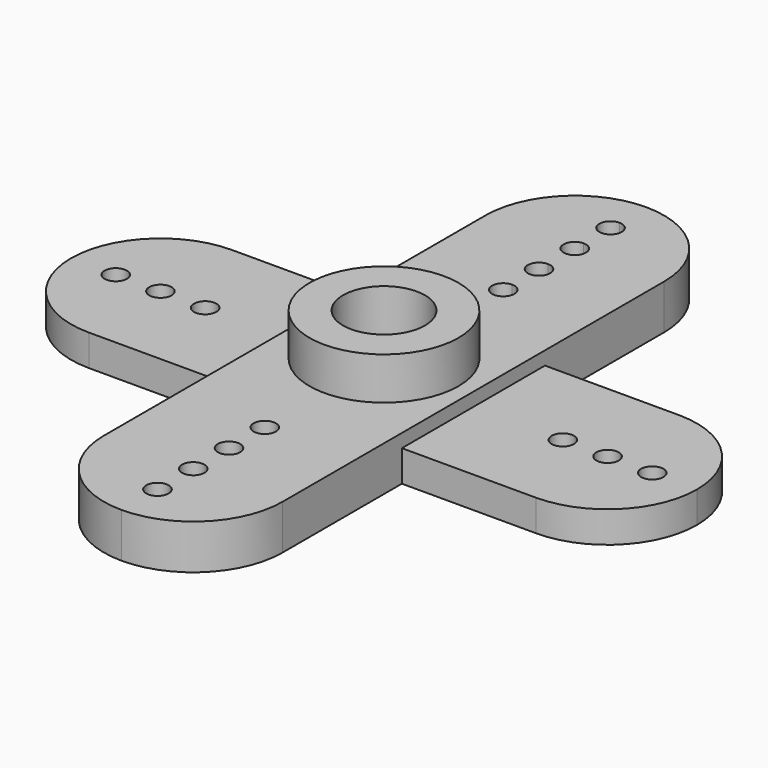
from build123d import *

# Parameters (mm, degrees)
F0_R     = 19.05
F1_DEPTH = 76.2
F2_DEPTH = 53.34
F3_R     = 127
F3_R_2   = 69.85
F4_DEPTH = 72.39
F5_R     = 76.2
F6_DEPTH = 35.56


with BuildPart() as f1:
    # F0 (on Top) → F1 (new body)
    with BuildSketch(Plane.XY):
        with BuildLine():
            ThreePointArc((34.29, 0), (-24.246692, -24.246692), (0, 34.29))
            Line((0, 34.29), (0, 234.95))
            ThreePointArc((0, 234.95), (-19.05, 254), (0, 273.05))
            Line((0, 273.05), (0, 311.15))
            ThreePointArc((0, 311.15), (-19.05, 330.2), (0, 349.25))
            Line((0, 349.25), (0, 387.35))
            ThreePointArc((0, 387.35), (-19.05, 406.4), (0, 425.45))
            Line((0, 425.45), (0, 463.55))
            ThreePointArc((0, 463.55), (-19.05, 482.6), (0, 501.65))
            Line((0, 501.65), (0, 558.8))
            ThreePointArc((0, 558.8), (-107.763073, 514.163073), (-152.4, 406.4))
            Line((-152.4, 406.4), (-152.4, 152.4))
            Line((-152.4, 152.4), (-152.4, -152.4))
            Line((-152.4, -152.4), (-152.4, -406.4))
            ThreePointArc((-152.4, -406.4), (-107.763073, -514.163073), (0, -558.8))
            ThreePointArc((0, -558.8), (107.763073, -514.163073), (152.4, -406.4))
            Line((152.4, -406.4), (152.4, -152.4))
            Line((152.4, -152.4), (152.4, 0))
            Line((152.4, 0), (34.29, 0))
        make_face()
        with Locations((0, -482.6)):
            Circle(F0_R, mode=Mode.SUBTRACT)
        with Locations((0, -406.4)):
            Circle(F0_R, mode=Mode.SUBTRACT)
        with Locations((0, -330.2)):
            Circle(F0_R, mode=Mode.SUBTRACT)
        with Locations((0, -254)):
            Circle(F0_R, mode=Mode.SUBTRACT)
        with BuildLine():
            Line((0, 234.95), (0, 34.29))
            ThreePointArc((0, 34.29), (24.246692, 24.246692), (34.29, 0))
            Line((34.29, 0), (152.4, 0))
            Line((152.4, 0), (152.4, 152.4))
            Line((152.4, 152.4), (152.4, 406.4))
            ThreePointArc((152.4, 406.4), (107.763073, 514.163073), (0, 558.8))
            Line((0, 558.8), (0, 501.65))
            ThreePointArc((0, 501.65), (13.470384, 496.070384), (19.05, 482.6))
            ThreePointArc((19.05, 482.6), (13.470384, 469.129616), (0, 463.55))
            Line((0, 463.55), (0, 425.45))
            ThreePointArc((0, 425.45), (13.470384, 419.870384), (19.05, 406.4))
            ThreePointArc((19.05, 406.4), (13.470384, 392.929616), (0, 387.35))
            Line((0, 387.35), (0, 349.25))
            ThreePointArc((0, 349.25), (13.470384, 343.670384), (19.05, 330.2))
            ThreePointArc((19.05, 330.2), (13.470384, 316.729616), (0, 311.15))
            Line((0, 311.15), (0, 273.05))
            ThreePointArc((0, 273.05), (13.470384, 267.470384), (19.05, 254))
            ThreePointArc((19.05, 254), (13.470384, 240.529616), (0, 234.95))
        make_face()
    extrude(amount=F1_DEPTH)

    # F0 (on Top) → F2 (join)
    with BuildSketch(Plane.XY):
        with BuildLine():
            Line((-381, -152.4), (-152.4, -152.4))
            Line((-152.4, -152.4), (-152.4, 152.4))
            Line((-152.4, 152.4), (-381, 152.4))
            ThreePointArc((-381, 152.4), (-488.763073, 107.763073), (-533.4, 0))
            ThreePointArc((-533.4, 0), (-488.763073, -107.763073), (-381, -152.4))
        make_face()
        with Locations((-457.2, 0)):
            Circle(F0_R, mode=Mode.SUBTRACT)
        with Locations((-381, 0)):
            Circle(F0_R, mode=Mode.SUBTRACT)
        with Locations((-304.8, 0)):
            Circle(F0_R, mode=Mode.SUBTRACT)
        with BuildLine():
            Line((152.4, 152.4), (152.4, 0))
            Line((152.4, 0), (285.75, 0))
            ThreePointArc((285.75, 0), (304.8, 19.05), (323.85, 0))
            Line((323.85, 0), (361.95, 0))
            ThreePointArc((361.95, 0), (381, 19.05), (400.05, 0))
            Line((400.05, 0), (438.15, 0))
            ThreePointArc((438.15, 0), (457.2, 19.05), (476.25, 0))
            Line((476.25, 0), (533.4, 0))
            ThreePointArc((533.4, 0), (488.763073, 107.763073), (381, 152.4))
            Line((381, 152.4), (152.4, 152.4))
        make_face()
        with BuildLine():
            Line((285.75, 0), (152.4, 0))
            Line((152.4, 0), (152.4, -152.4))
            Line((152.4, -152.4), (381, -152.4))
            ThreePointArc((381, -152.4), (488.763073, -107.763073), (533.4, 0))
            Line((533.4, 0), (476.25, 0))
            ThreePointArc((476.25, 0), (457.2, -19.05), (438.15, 0))
            Line((438.15, 0), (400.05, 0))
            ThreePointArc((400.05, 0), (381, -19.05), (361.95, 0))
            Line((361.95, 0), (323.85, 0))
            ThreePointArc((323.85, 0), (304.8, -19.05), (285.75, 0))
        make_face()
    extrude(amount=F2_DEPTH)

    # F3 (on face) → F4 (join)
    with BuildSketch(Plane.XY.offset(76.2)):
        Circle(F3_R)
        Circle(F3_R_2, mode=Mode.SUBTRACT)
    extrude(amount=F4_DEPTH)

    # F5 (on face) → F6 (cut)
    with BuildSketch(Plane.XY):
        Circle(F5_R)
    extrude(amount=F6_DEPTH, mode=Mode.SUBTRACT)


solid = f1.part
